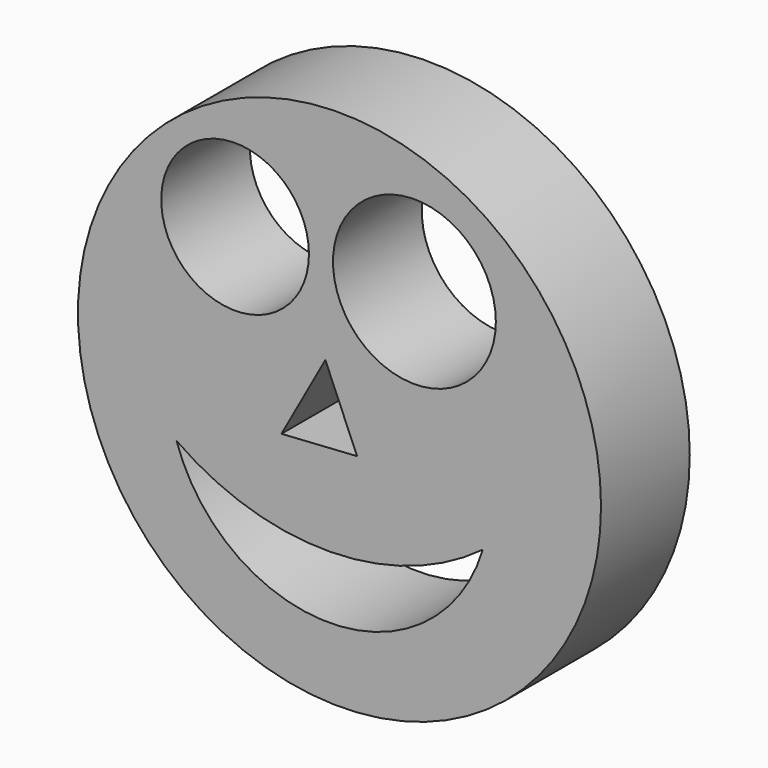
from build123d import *

# Parameters (mm, degrees)
F0_R     = 59.886872
F0_R_2   = 16.913856
F0_R_3   = 18.643696
F1_DEPTH = 25.4


with BuildPart() as f1:
    # F0 (on Front) → F1 (new body)
    with BuildSketch(Plane.XZ):
        Circle(F0_R)
        with BuildLine():
            ThreePointArc((32.801818, -17.587269), (-1.953813, -43.724895), (-37.324231, -18.425429))
            ThreePointArc((-37.324231, -18.425429), (-2.125486, -29.361637), (32.801818, -17.587269))
        make_face(mode=Mode.SUBTRACT)
        Polygon((4.024993, -8.088123), (-13.296979, -9.20567), (-3.239061, 8.954463), align=None, mode=Mode.SUBTRACT)
        with Locations((-23.913672, 29.070303)):
            Circle(F0_R_2, mode=Mode.SUBTRACT)
        with Locations((17.156165, 29.349688)):
            Circle(F0_R_3, mode=Mode.SUBTRACT)
    extrude(amount=F1_DEPTH)


solid = f1.part
